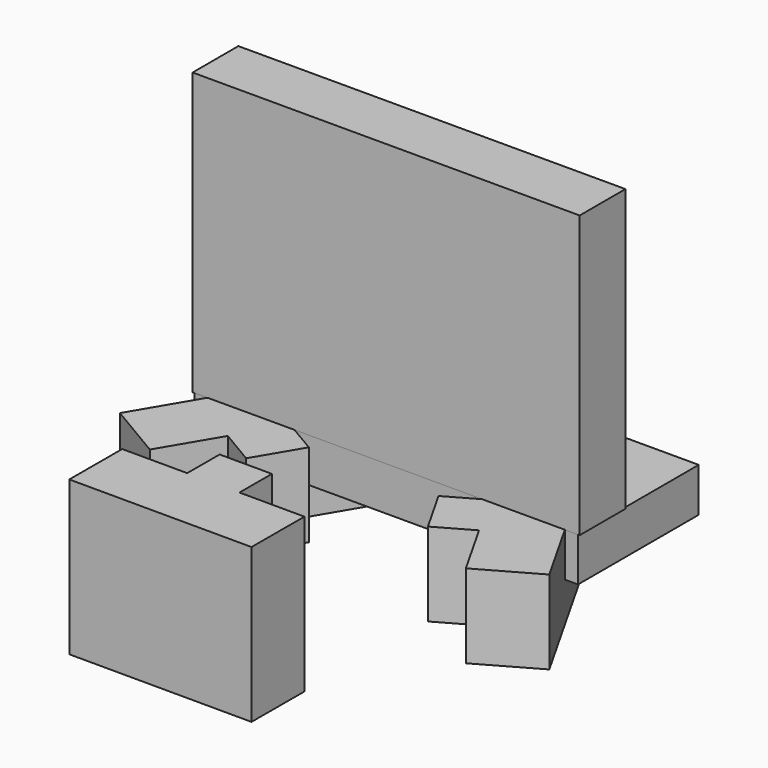
from build123d import *

# Parameters (mm, degrees)
SKETCH006_W            = 87.248978
SKETCH006_H            = 34.299007
EXTRUDE007_DEPTH       = 10
EXTRUDE003_DEPTH       = 19
EXTRUDE004_DEPTH       = 19
EXTRUDE005_DEPTH       = 35
SKETCH007_W            = 88
SKETCH007_H            = 13
EXTRUDE006_DEPTH       = 64
FUSION_PLACEMENT_ANGLE = 180


with BuildPart() as extrude007:
    # Sketch006 → Extrude007 (new body)
    with BuildSketch(Plane.XY):
        with Locations((83.604523, 30.688192)):
            Rectangle(SKETCH006_W, SKETCH006_H)
    extrude(amount=EXTRUDE007_DEPTH)


with BuildPart() as extrude007_1:
    # Extrude007 placement: moved
    add(extrude007.part.moved(Location((3, 0, 9))))


with BuildPart() as extrude003:
    # Sketch004 → Extrude003 (new body)
    with BuildSketch(Plane.XY):
        Polygon((114.524362, 26.458614), (101.615411, 34.09792), (109.152859, 46.834751), (101.23537, 51.520192), (107.295886, 61.761293), (115.213376, 57.075852), (122.750824, 69.812683), (135.659775, 62.173377), align=None)
    extrude(amount=EXTRUDE003_DEPTH)


with BuildPart() as extrude004:
    # Sketch005 → Extrude004 (new body)
    with BuildSketch(Plane.XY):
        Polygon((37.353531, 63.041878), (50.403561, 70.4376), (57.700674, 57.56157), (65.704692, 62.097613), (71.571965, 51.744589), (63.567946, 47.208546), (70.865059, 34.332516), (57.815029, 26.936794), align=None)
    extrude(amount=EXTRUDE004_DEPTH)


with BuildPart() as extrude005:
    # Sketch003 → Extrude005 (new body)
    with BuildSketch(Plane.XY):
        Polygon((107.534802, 111.722114), (107.500671, 96.722153), (92.700709, 96.755829), (92.679776, 87.555852), (80.779807, 87.582929), (80.80074, 96.782905), (66.000778, 96.816581), (66.034909, 111.816542), align=None)
    extrude(amount=EXTRUDE005_DEPTH)


with BuildPart() as suporte1:
    # Sketch007 → Extrude006 (new body)
    with BuildSketch(Plane.XY):
        with Locations((83.577726, 41.368692)):
            Rectangle(SKETCH007_W, SKETCH007_H)
    extrude(amount=EXTRUDE006_DEPTH)


with BuildPart() as suporte1_1:
    # Extrude006 placement: moved
    add(suporte1.part.moved(Location((3, 0, 19))))

    # Fusion: union Extrude007, Extrude003, Extrude004, Extrude005
    add(extrude007_1.part)
    add(extrude003.part)
    add(extrude004.part)
    add(extrude005.part)


with BuildPart() as suporte1_2:
    # Fusion placement: moved
    add(suporte1_1.part.moved(Location((303.5, 11, -42))).rotate(Axis((303.5, 11, -42), (0, 0, 1)), FUSION_PLACEMENT_ANGLE))


solid = suporte1_2.part
